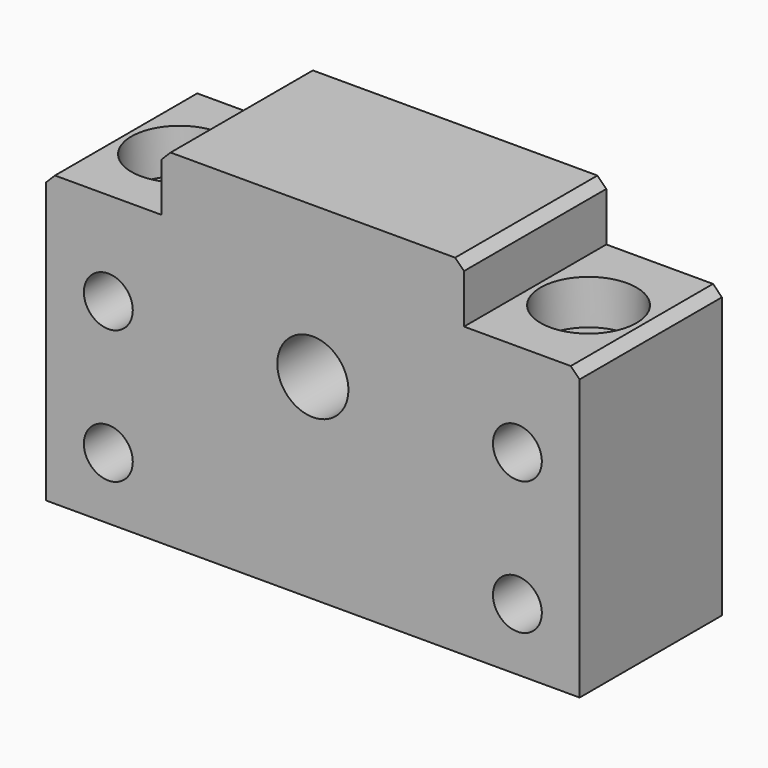
from build123d import *

# Parameters (mm, degrees)
F0_R           = 2.75
F0_R_2         = 4
F1_DEPTH       = 20
F2_SIZE        = 1
F4_D           = 6.6
F4_CBORE_D     = 10.8
F4_CBORE_DEPTH = 5


with BuildPart() as f1:
    # F0 (on Front) → F1 (new body)
    with BuildSketch(Plane.XZ):
        Polygon((17, 17), (-17, 17), (-17, 10.5), (-30, 10.5), (-30, -22), (30, -22), (30, 10.5), (17, 10.5), align=None)
        with Locations((-23, -15)):
            Circle(F0_R, mode=Mode.SUBTRACT)
        with Locations((23, -15)):
            Circle(F0_R, mode=Mode.SUBTRACT)
        with Locations((-23, 0)):
            Circle(F0_R, mode=Mode.SUBTRACT)
        Circle(F0_R_2, mode=Mode.SUBTRACT)
        with Locations((23, 0)):
            Circle(F0_R, mode=Mode.SUBTRACT)
    extrude(amount=F1_DEPTH)

    # F2
    f2_edges = [f1.edges().sort_by_distance(p)[0] for p in [
        (17, -10, 17),
        (-17, -10, 17),
        (30, -10, 10.5),
        (-30, -10, 10.5),
    ]]
    chamfer(f2_edges, length=F2_SIZE)

    # F4 (through all)
    with Locations(Plane.XY.offset(10.5)):
        with Locations((-23, -10), (23, -10)):
            CounterBoreHole(F4_D / 2, F4_CBORE_D / 2, F4_CBORE_DEPTH)


solid = f1.part
